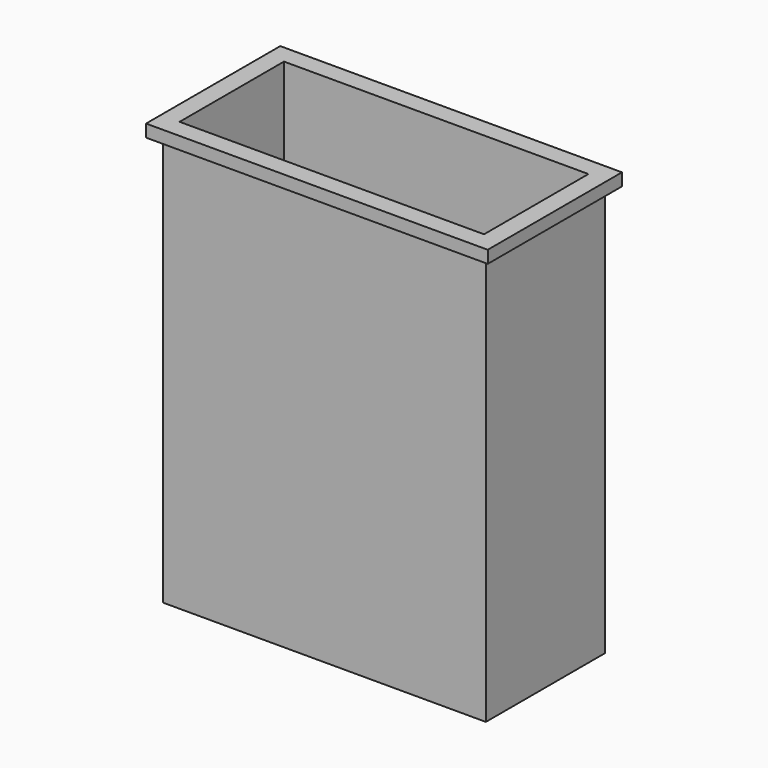
from build123d import *

# Parameters (mm, degrees)
F0_W     = 13
F0_H     = 6
F1_DEPTH = 17
F2_W     = 13.75
F2_H     = 6.75
F2_W_2   = 13
F2_H_2   = 6
F3_DEPTH = 0.5
F4_W     = 12.25
F4_H     = 5.25
F5_DEPTH = 16.5


with BuildPart() as f1:
    # F0 (on Top) → F1 (new body)
    with BuildSketch(Plane.XY):
        Rectangle(F0_W, F0_H)
    extrude(amount=F1_DEPTH)

    # F2 (on face) → F3 (join)
    with BuildSketch(Plane.XY.offset(17)):
        Rectangle(F2_W, F2_H)
        Rectangle(F2_W_2, F2_H_2, mode=Mode.SUBTRACT)
        Rectangle(F2_W_2, F2_H_2)
    extrude(amount=-F3_DEPTH)

    # F4 (on face) → F5 (cut, through all)
    with BuildSketch(Plane.XY.offset(17)):
        Rectangle(F4_W, F4_H)
    extrude(amount=-F5_DEPTH, mode=Mode.SUBTRACT)


solid = f1.part
